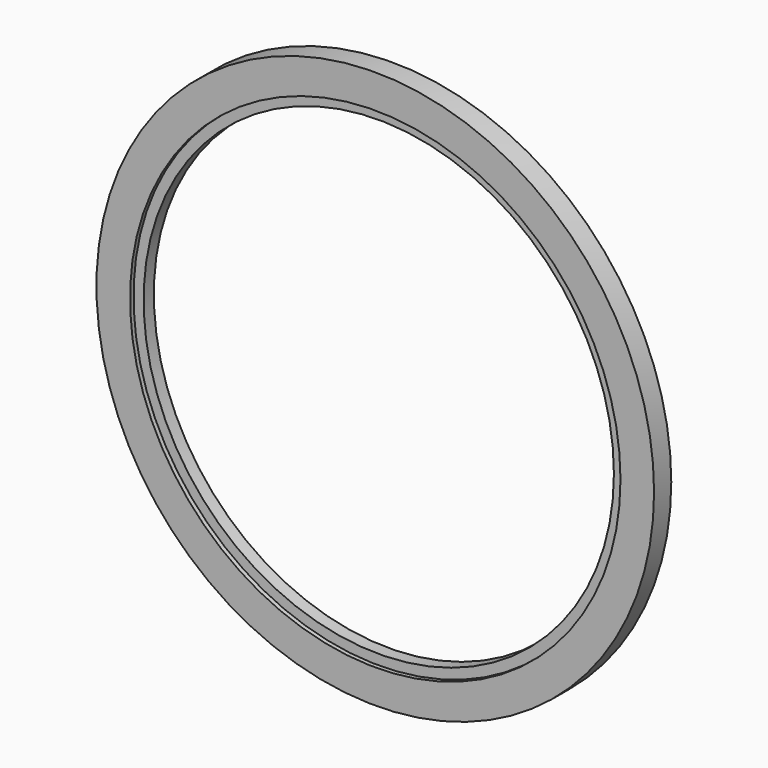
from build123d import *

# Parameters (mm, degrees)
F0_R     = 41.5
F0_R_2   = 36.5
F1_DEPTH = 1.6
F2_R     = 36.5
F2_R_2   = 35
F3_DEPTH = 0.95


with BuildPart() as f1:
    # F0 (on Front) → F1 (new body, symmetric)
    with BuildSketch(Plane.XZ):
        Circle(F0_R)
        Circle(F0_R_2, mode=Mode.SUBTRACT)
    extrude(amount=F1_DEPTH, both=True)

    # F2 (on Front) → F3 (join, symmetric)
    with BuildSketch(Plane.XZ):
        Circle(F2_R)
        Circle(F2_R_2, mode=Mode.SUBTRACT)
    extrude(amount=F3_DEPTH, both=True)


solid = f1.part
